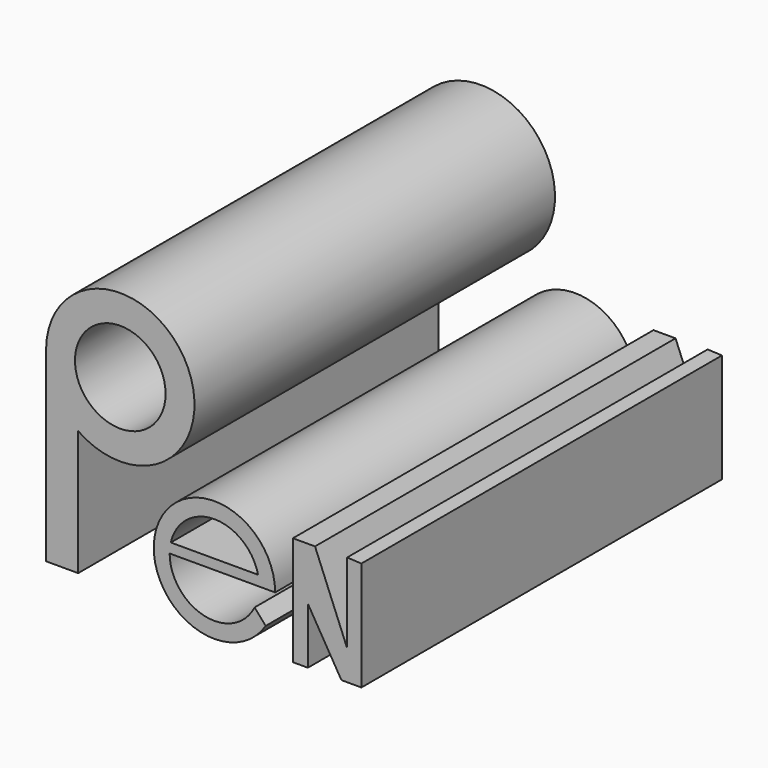
from build123d import *

# Parameters (mm, degrees)
F0_R     = 12.766602
F1_DEPTH = 127


with BuildPart() as f1:
    # F0 (on Front) → F1 (new body)
    with BuildSketch(Plane.XZ):
        with BuildLine():
            Line((-53.071965, 30.875754), (-53.071965, -21.309194))
            Line((-53.071965, -21.309194), (-44.025604, -21.309194))
            Line((-44.025604, -21.309194), (-44.025604, 13.940178))
            ThreePointArc((-44.025604, 13.940178), (-13.589932, 40.75981), (-53.071965, 31.443595))
            Line((-53.071965, 31.443595), (-53.071965, 30.875754))
        make_face()
        with Locations((-32.164823, 31.159675)):
            Circle(F0_R, mode=Mode.SUBTRACT)
        with BuildLine():
            ThreePointArc((-53.071965, 31.443595), (-53.073892, 31.159675), (-53.071965, 30.875754))
            Line((-53.071965, 30.875754), (-53.071965, 31.443595))
        make_face()
        with BuildLine():
            Line((-18.250502, -8.041206), (-5.628545, -8.041206))
            Line((-5.628545, -8.041206), (6.993413, -8.041206))
            Line((6.993413, -8.041206), (11.476998, -8.041206))
            ThreePointArc((11.476998, -8.041206), (-22.055464, -3.270891), (8.816351, -17.203333))
            Line((8.816351, -17.203333), (5.681116, -13.645257))
            ThreePointArc((5.681116, -13.645257), (-8.50637, -20.330711), (-18.250502, -8.041206))
        make_face()
        with BuildLine():
            ThreePointArc((-17.931006, -5.219283), (-5.628545, 4.580752), (6.673917, -5.219283))
            Line((6.673917, -5.219283), (-17.931006, -5.219283))
        make_face(mode=Mode.SUBTRACT)
        Polygon((22.716409, 7.036055), (16.484471, 7.036055), (16.484471, -23.721559), (20.706106, -23.721559), (20.706106, -7.840176), (30.154523, -23.721559), (35.783369, -23.721559), (35.783369, 7.036055), (31.762193, 7.224928), (31.762193, -15.278292), align=None)
    extrude(amount=F1_DEPTH)


solid = f1.part
